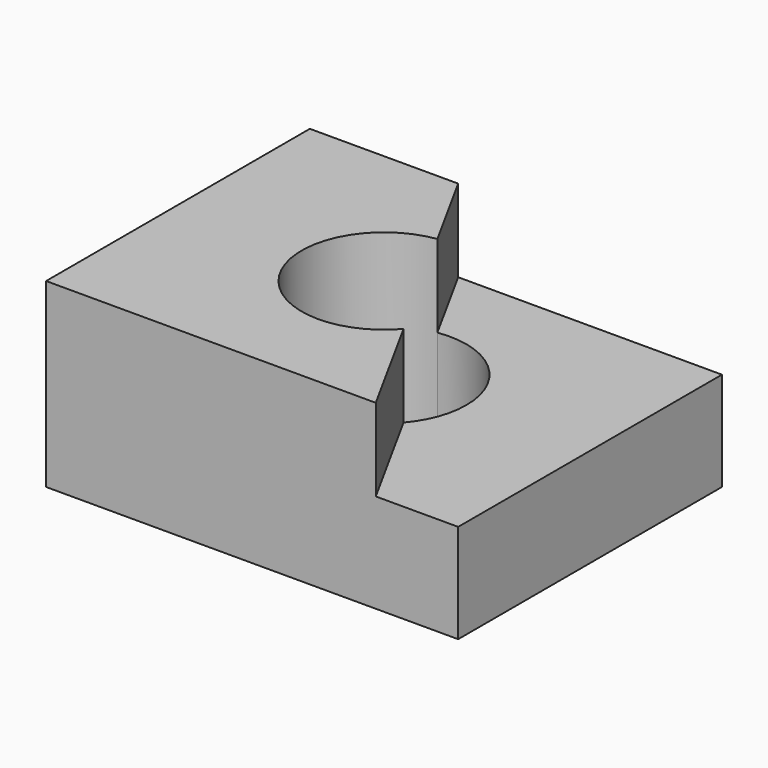
from build123d import *

# Parameters (mm, degrees)
F1_DEPTH = 44
F3_DEPTH = 20


with BuildPart() as f1:
    # F0 (on Top) → F1 (new body)
    with BuildSketch(Plane.XY):
        with BuildLine():
            Line((50, -40), (50, 40))
            Line((50, 40), (-14, 40))
            Line((-14, 40), (-2.884957, 19.790832))
            ThreePointArc((-2.884957, 19.790832), (13.082447, 15.127775), (20, 0))
            ThreePointArc((20, 0), (18.753407, -6.95052), (15.169027, -13.034594))
            Line((15.169027, -13.034594), (30, -40))
            Line((30, -40), (50, -40))
        make_face()
        with BuildLine():
            Line((-2.884957, 19.790832), (-14, 40))
            Line((-14, 40), (-50, 40))
            Line((-50, 40), (-50, -40))
            Line((-50, -40), (30, -40))
            Line((30, -40), (15.169027, -13.034594))
            ThreePointArc((15.169027, -13.034594), (-17.524318, -9.638375), (-2.884957, 19.790832))
        make_face()
    extrude(amount=F1_DEPTH)

    # F2 (on face) → F3 (cut)
    with BuildSketch(Plane.XY.offset(44)):
        with BuildLine():
            Line((50, 40), (-14, 40))
            Line((-14, 40), (-2.884957, 19.790832))
            ThreePointArc((-2.884957, 19.790832), (13.082447, 15.127775), (20, 0))
            ThreePointArc((20, 0), (18.753407, -6.95052), (15.169027, -13.034594))
            Line((15.169027, -13.034594), (30, -40))
            Line((30, -40), (50, -40))
            Line((50, -40), (50, 40))
        make_face()
    extrude(amount=-F3_DEPTH, mode=Mode.SUBTRACT)


solid = f1.part
